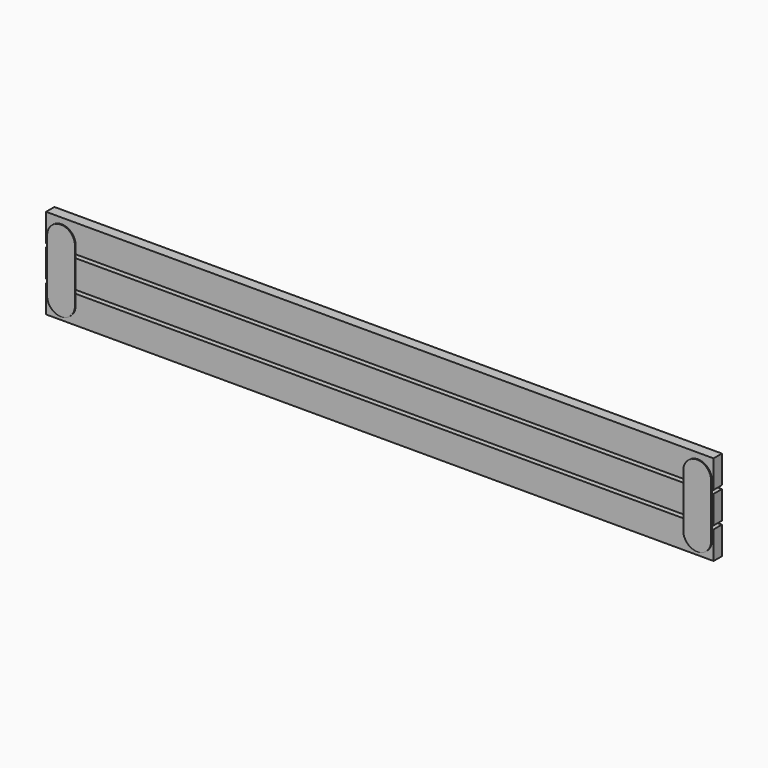
from build123d import *

# Parameters (mm, degrees)
F0_W     = 2438.4
F0_H     = 101.6
F1_DEPTH = 38.1
F3_DEPTH = 3.175


with BuildPart() as f1:
    # F0 (on Front) → F1 (new body)
    with BuildSketch(Plane.XZ):
        with Locations((0, 63.5)):
            Rectangle(F0_W, F0_H)
    extrude(amount=F1_DEPTH)



with BuildPart() as f1b:
    # F0 (on Front) → F1, piece 2 (new body)
    with BuildSketch(Plane.XZ):
        with Locations((0, -50.8)):
            Rectangle(F0_W, F0_H)
    extrude(amount=F1_DEPTH)


with BuildPart() as f1c:
    # F0 (on Front) → F1, piece 3 (new body)
    with BuildSketch(Plane.XZ):
        with Locations((0, -165.1)):
            Rectangle(F0_W, F0_H)
    extrude(amount=F1_DEPTH)


with BuildPart() as f1_1:
    add(f1.part)

    add(f1b.part)  # F3 merges F1b

    add(f1c.part)  # F3 merges F1c
    # F2 (on face) → F3 (join)
    with BuildSketch(Plane.XZ.offset(38.1)):
        with BuildLine():
            Line((-1212.85, 41.9409019501), (-1212.85, -152.4))
            ThreePointArc((-1212.85, -152.4), (-1162.05, -203.2), (-1111.25, -152.4))
            Line((-1111.25, -152.4), (-1111.25, 41.9409019501))
            ThreePointArc((-1111.25, 41.9409019501), (-1162.05, 92.7409019501), (-1212.85, 41.9409019501))
        make_face()
        with BuildLine():
            Line((1111.25, 41.9409019501), (1111.25, -152.4))
            ThreePointArc((1111.25, -152.4), (1162.05, -203.2), (1212.85, -152.4))
            Line((1212.85, -152.4), (1212.85, 41.9409019501))
            ThreePointArc((1212.85, 41.9409019501), (1162.05, 92.7409019501), (1111.25, 41.9409019501))
        make_face()
    extrude(amount=F3_DEPTH)


solid = f1_1.part
